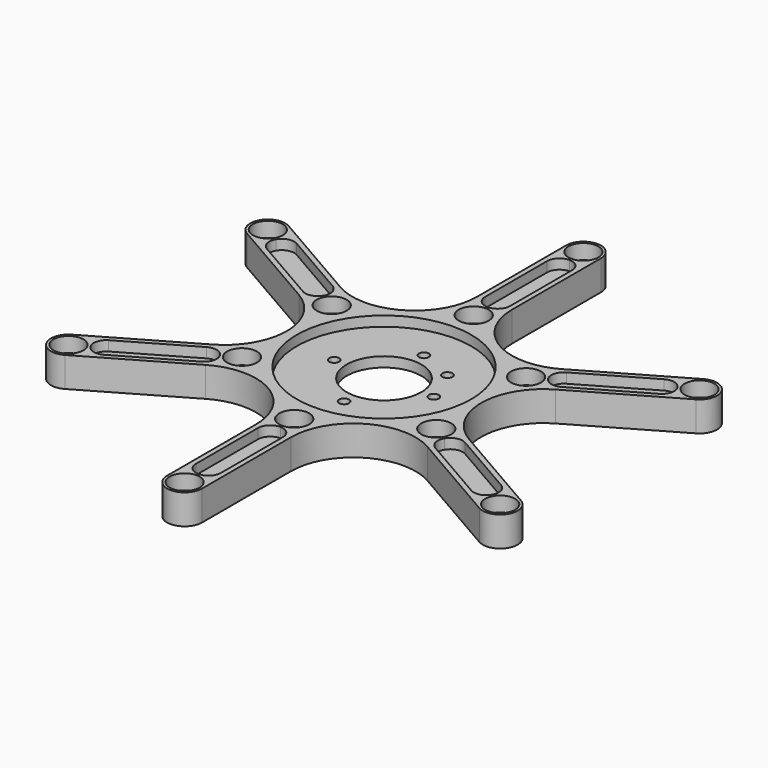
from build123d import *

# Parameters (mm, degrees)
F0_R      = 3
F0_R_2    = 15
F1_DEPTH  = 12
F2_R      = 6
F3_DEPTH  = 6
F4_R      = 2
F5_DEPTH  = 12.001
F6_R      = 35
F7_DEPTH  = 4
F8_R      = 35
F9_DEPTH  = 4
F10_R     = 2
F11_DEPTH = 25


with BuildPart() as f1:
    # F0 (on Top) → F1 (new body)
    with BuildSketch(Plane.XY):
        with BuildLine():
            Line((7, 55.425626), (7, 100))
            ThreePointArc((7, 100), (0, 107), (-7, 100))
            Line((-7, 100), (-7, 55.425626))
            ThreePointArc((-7, 55.425626), (-19.5, 33.774991), (-44.5, 33.774991))
            Line((-44.5, 33.774991), (-83.10254, 56.062178))
            ThreePointArc((-83.10254, 56.062178), (-92.664718, 53.5), (-90.10254, 43.937822))
            Line((-90.10254, 43.937822), (-51.5, 21.650635))
            ThreePointArc((-51.5, 21.650635), (-39, 0), (-51.5, -21.650635))
            Line((-51.5, -21.650635), (-90.10254, -43.937822))
            ThreePointArc((-90.10254, -43.937822), (-92.664718, -53.5), (-83.10254, -56.062178))
            Line((-83.10254, -56.062178), (-44.5, -33.774991))
            ThreePointArc((-44.5, -33.774991), (-19.5, -33.774991), (-7, -55.425626))
            Line((-7, -55.425626), (-7, -100))
            ThreePointArc((-7, -100), (0, -107), (7, -100))
            Line((7, -100), (7, -55.425626))
            ThreePointArc((7, -55.425626), (19.5, -33.774991), (44.5, -33.774991))
            Line((44.5, -33.774991), (83.10254, -56.062178))
            ThreePointArc((83.10254, -56.062178), (92.664718, -53.5), (90.10254, -43.937822))
            Line((90.10254, -43.937822), (51.5, -21.650635))
            ThreePointArc((51.5, -21.650635), (39, 0), (51.5, 21.650635))
            Line((51.5, 21.650635), (90.10254, 43.937822))
            ThreePointArc((90.10254, 43.937822), (92.664718, 53.5), (83.10254, 56.062178))
            Line((83.10254, 56.062178), (44.5, 33.774991))
            ThreePointArc((44.5, 33.774991), (19.5, 33.774991), (7, 55.425626))
        make_face()
        with Locations((-86.60254, -50)):
            Circle(F0_R, mode=Mode.SUBTRACT)
        with Locations((-38.971143, -22.5)):
            Circle(F0_R, mode=Mode.SUBTRACT)
        with Locations((0, -100)):
            Circle(F0_R, mode=Mode.SUBTRACT)
        with Locations((0, -45)):
            Circle(F0_R, mode=Mode.SUBTRACT)
        Circle(F0_R_2, mode=Mode.SUBTRACT)
        with Locations((38.971143, -22.5)):
            Circle(F0_R, mode=Mode.SUBTRACT)
        with Locations((86.60254, -50)):
            Circle(F0_R, mode=Mode.SUBTRACT)
        with Locations((-86.60254, 50)):
            Circle(F0_R, mode=Mode.SUBTRACT)
        with Locations((-38.971143, 22.5)):
            Circle(F0_R, mode=Mode.SUBTRACT)
        with Locations((38.971143, 22.5)):
            Circle(F0_R, mode=Mode.SUBTRACT)
        with Locations((0, 45)):
            Circle(F0_R, mode=Mode.SUBTRACT)
        with Locations((86.60254, 50)):
            Circle(F0_R, mode=Mode.SUBTRACT)
        with Locations((0, 100)):
            Circle(F0_R, mode=Mode.SUBTRACT)
    extrude(amount=F1_DEPTH)

    # F2 (on face) → F3 (cut)
    with BuildSketch(Plane.XY.offset(12)):
        with Locations((-86.60254, 50)):
            Circle(F2_R)
        with Locations((0, 100)):
            Circle(F2_R)
        with Locations((86.60254, 50)):
            Circle(F2_R)
        with Locations((86.60254, -50)):
            Circle(F2_R)
        with Locations((0, -100)):
            Circle(F2_R)
        with Locations((-86.60254, -50)):
            Circle(F2_R)
        with Locations((-38.971143, 22.5)):
            Circle(F2_R)
        with Locations((0, 45)):
            Circle(F2_R)
        with Locations((38.971143, 22.5)):
            Circle(F2_R)
        with Locations((38.971143, -22.5)):
            Circle(F2_R)
        with Locations((0, -45)):
            Circle(F2_R)
        with Locations((-38.971143, -22.5)):
            Circle(F2_R)
    extrude(amount=-F3_DEPTH, mode=Mode.SUBTRACT)

    # F4 (on face) → F5 (cut, through all)
    with BuildSketch(Plane.XY.offset(12)):
        with Locations((0, 20)):
            Circle(F4_R)
        with Locations((-20, 0)):
            Circle(F4_R)
        with Locations((0, -20)):
            Circle(F4_R)
        with Locations((20, 0)):
            Circle(F4_R)
    extrude(amount=-F5_DEPTH, mode=Mode.SUBTRACT)

    # F6 (on face) → F7 (cut)
    with BuildSketch(Plane.XY.offset(12)):
        Circle(F6_R)
        with BuildLine():
            ThreePointArc((0, 93), (-3.535534, 91.535534), (-5, 88))
            Line((-5, 88), (-5, 57))
            ThreePointArc((-5, 57), (-3.535534, 53.464466), (0, 52))
            ThreePointArc((0, 52), (3.535534, 53.464466), (5, 57))
            Line((5, 57), (5, 88))
            ThreePointArc((5, 88), (3.535534, 91.535534), (0, 93))
        make_face()
        with BuildLine():
            Line((-46.863448, 32.830127), (-73.710236, 48.330127))
            ThreePointArc((-73.710236, 48.330127), (-77.504331, 48.829629), (-80.540363, 46.5))
            ThreePointArc((-80.540363, 46.5), (-81.039865, 42.705905), (-78.710236, 39.669873))
            Line((-78.710236, 39.669873), (-51.863448, 24.169873))
            ThreePointArc((-51.863448, 24.169873), (-48.069353, 23.670371), (-45.033321, 26))
            ThreePointArc((-45.033321, 26), (-44.533819, 29.794095), (-46.863448, 32.830127))
        make_face()
        with BuildLine():
            Line((-51.863448, -24.169873), (-78.710236, -39.669873))
            ThreePointArc((-78.710236, -39.669873), (-81.039865, -42.705905), (-80.540363, -46.5))
            ThreePointArc((-80.540363, -46.5), (-77.504331, -48.829629), (-73.710236, -48.330127))
            Line((-73.710236, -48.330127), (-46.863448, -32.830127))
            ThreePointArc((-46.863448, -32.830127), (-44.533819, -29.794095), (-45.033321, -26))
            ThreePointArc((-45.033321, -26), (-48.069353, -23.670371), (-51.863448, -24.169873))
        make_face()
        with BuildLine():
            Line((-5, -57), (-5, -88))
            ThreePointArc((-5, -88), (-3.535534, -91.535534), (0, -93))
            ThreePointArc((0, -93), (3.535534, -91.535534), (5, -88))
            Line((5, -88), (5, -57))
            ThreePointArc((5, -57), (3.535534, -53.464466), (0, -52))
            ThreePointArc((0, -52), (-3.535534, -53.464466), (-5, -57))
        make_face()
        with BuildLine():
            Line((46.863448, -32.830127), (73.710236, -48.330127))
            ThreePointArc((73.710236, -48.330127), (77.504331, -48.829629), (80.540363, -46.5))
            ThreePointArc((80.540363, -46.5), (81.039865, -42.705905), (78.710236, -39.669873))
            Line((78.710236, -39.669873), (51.863448, -24.169873))
            ThreePointArc((51.863448, -24.169873), (48.069353, -23.670371), (45.033321, -26))
            ThreePointArc((45.033321, -26), (44.533819, -29.794095), (46.863448, -32.830127))
        make_face()
        with BuildLine():
            Line((51.863448, 24.169873), (78.710236, 39.669873))
            ThreePointArc((78.710236, 39.669873), (81.039865, 42.705905), (80.540363, 46.5))
            ThreePointArc((80.540363, 46.5), (77.504331, 48.829629), (73.710236, 48.330127))
            Line((73.710236, 48.330127), (46.863448, 32.830127))
            ThreePointArc((46.863448, 32.830127), (44.533819, 29.794095), (45.033321, 26))
            ThreePointArc((45.033321, 26), (48.069353, 23.670371), (51.863448, 24.169873))
        make_face()
    extrude(amount=-F7_DEPTH, mode=Mode.SUBTRACT)

    # F8 (on face) → F9 (cut)
    with BuildSketch(Plane(origin=(0, 0, 0), x_dir=(1, 0, 0), z_dir=(0, 0, -1))):
        Circle(F8_R)
        with BuildLine():
            ThreePointArc((-73.710236, 48.330127), (-80.540363, 46.5), (-78.710236, 39.669873))
            Line((-78.710236, 39.669873), (-51.863448, 24.169873))
            ThreePointArc((-51.863448, 24.169873), (-45.033321, 26), (-46.863448, 32.830127))
            Line((-46.863448, 32.830127), (-73.710236, 48.330127))
        make_face()
        with BuildLine():
            ThreePointArc((-78.710236, -39.669873), (-80.540363, -46.5), (-73.710236, -48.330127))
            Line((-73.710236, -48.330127), (-46.863448, -32.830127))
            ThreePointArc((-46.863448, -32.830127), (-45.033321, -26), (-51.863448, -24.169873))
            Line((-51.863448, -24.169873), (-78.710236, -39.669873))
        make_face()
        with BuildLine():
            ThreePointArc((5, -57), (0, -52), (-5, -57))
            Line((-5, -57), (-5, -88))
            ThreePointArc((-5, -88), (0, -93), (5, -88))
            Line((5, -88), (5, -57))
        make_face()
        with BuildLine():
            ThreePointArc((73.710236, -48.330127), (80.540363, -46.5), (78.710236, -39.669873))
            Line((78.710236, -39.669873), (51.863448, -24.169873))
            ThreePointArc((51.863448, -24.169873), (45.033321, -26), (46.863448, -32.830127))
            Line((46.863448, -32.830127), (73.710236, -48.330127))
        make_face()
        with BuildLine():
            ThreePointArc((78.710236, 39.669873), (80.540363, 46.5), (73.710236, 48.330127))
            Line((73.710236, 48.330127), (46.863448, 32.830127))
            ThreePointArc((46.863448, 32.830127), (45.033321, 26), (51.863448, 24.169873))
            Line((51.863448, 24.169873), (78.710236, 39.669873))
        make_face()
        with BuildLine():
            ThreePointArc((5, 88), (0, 93), (-5, 88))
            Line((-5, 88), (-5, 57))
            ThreePointArc((-5, 57), (0, 52), (5, 57))
            Line((5, 57), (5, 88))
        make_face()
    extrude(amount=-F9_DEPTH, mode=Mode.SUBTRACT)

    # F10 (on face) → F11 (cut)
    with BuildSketch(Plane.XY.offset(8)):
        with Locations((14.142136, 14.142136)):
            Circle(F10_R)
    extrude(amount=-F11_DEPTH, mode=Mode.SUBTRACT)


solid = f1.part
